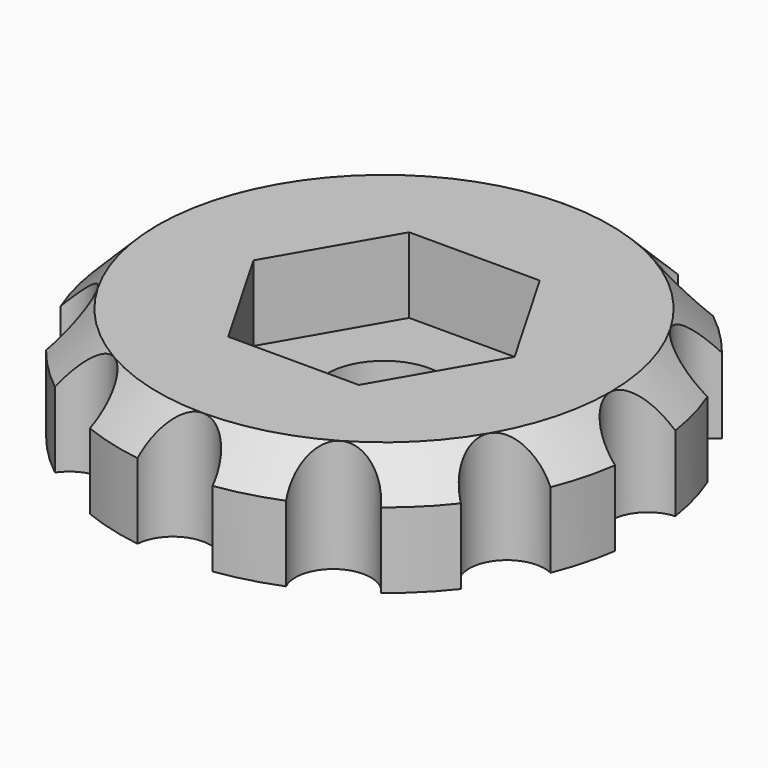
from build123d import *

# Parameters (mm, degrees)
CYLINDER028_R     = 1
CYLINDER028_DEPTH = 10
ARRAY_COUNT       = 12
CYLINDER027_R     = 1.5
CYLINDER027_DEPTH = 10
CYLINDER026_R     = 7
CYLINDER026_DEPTH = 3
POCKET009_DEPTH   = 2
CHAMFER010_SIZE   = 1


with BuildPart() as array:
    # Cylinder028 → Cylinder028 (new body)
    with BuildSketch(Plane(origin=(7, 0, -2), x_dir=(1, 0, 0), z_dir=(0, 0, 1))):
        Circle(CYLINDER028_R)
    extrude(amount=CYLINDER028_DEPTH)

    # Array: Array ×12 about axis
    array_axis = Axis((0, 0, 0), (0, 0, 1))


with BuildPart() as array_1:
    add(array.part)
    for i in range(1, ARRAY_COUNT):
        add(array.part.rotate(array_axis, i * 360 / ARRAY_COUNT))


with BuildPart() as cilindro019:
    # Cylinder027 → Cylinder027 (new body)
    with BuildSketch(Plane.XY.offset(-2)):
        Circle(CYLINDER027_R)
    extrude(amount=CYLINDER027_DEPTH)


with BuildPart() as cut013:
    # Cylinder026 → Cylinder026 (new body)
    with BuildSketch(Plane.XY):
        Circle(CYLINDER026_R)
    extrude(amount=CYLINDER026_DEPTH)

    # Sketch004 → Pocket009 (cut)
    with BuildSketch(Plane.XY.offset(3)):
        Polygon((-3.464093, 0), (-1.732049, 3), (1.732049, 3), (3.464093, 0), (1.732049, -3), (-1.732049, -3), align=None)
    extrude(amount=-POCKET009_DEPTH, mode=Mode.SUBTRACT)

    # Chamfer010
    chamfer010_edges = [cut013.edges().sort_by_distance(p)[0] for p in [
        (-7, 0, 3),
    ]]
    chamfer(chamfer010_edges, length=CHAMFER010_SIZE)

    # Cut012: cut Cilindro019
    add(cilindro019.part, mode=Mode.SUBTRACT)

    # Cut013: cut Array
    add(array_1.part, mode=Mode.SUBTRACT)


with BuildPart() as cut013_1:
    # Cut013 placement: moved
    add(cut013.part.moved(Location((-52, -59, -10.3))))


solid = cut013_1.part
